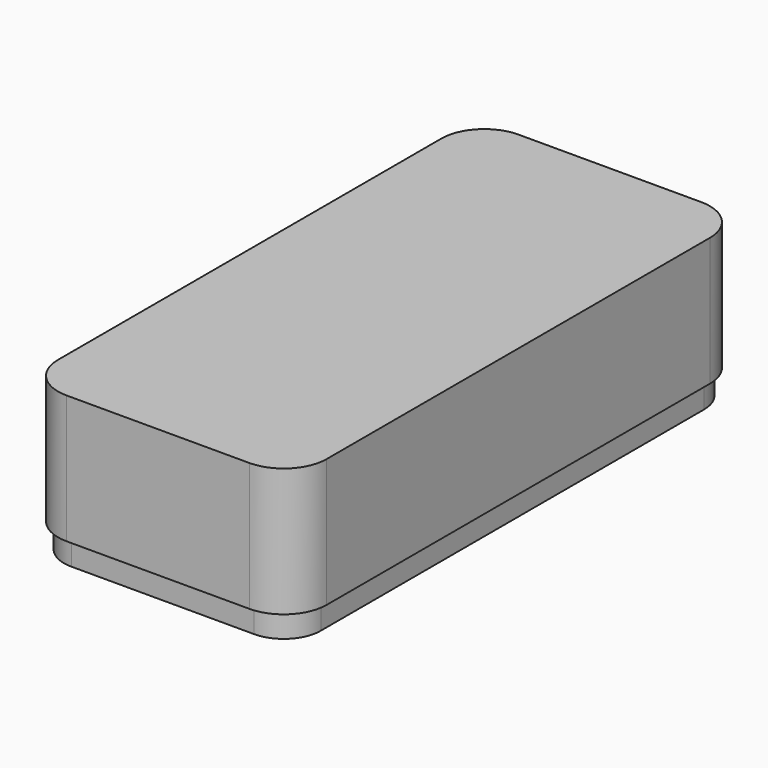
from build123d import *

# Parameters (mm, degrees)
F0_W      = 100
F0_H      = 2
F1_DEPTH  = 60
F0_H_2    = 82
F2_DEPTH  = 2
F4_DEPTH  = 2
F6_DEPTH  = 2
F7_R      = 10
F9_DEPTH  = 2
F10_DEPTH = 50


with BuildPart() as f1:
    # F0 (on Top) → F1 (new body)
    with BuildSketch(Plane.XY):
        with BuildLine():
            ThreePointArc((-41.5143723786, 157.8886009157), (-52.1209740964, 153.4952026335), (-56.5143723786, 142.8886009157))
            Line((-56.5143723786, 142.8886009157), (-56.5143723786, -51.1113990843))
            ThreePointArc((-56.5143723786, -51.1113990843), (-52.1209740964, -61.7180008021), (-41.5143723786, -66.1113990843))
            Line((-41.5143723786, -66.1113990843), (32.4856276214, -66.1113990843))
            ThreePointArc((32.4856276214, -66.1113990843), (43.0922293392, -61.7180008021), (47.4856276214, -51.1113990843))
            Line((47.4856276214, -51.1113990843), (47.4856276214, 142.8886009157))
            ThreePointArc((47.4856276214, 142.8886009157), (43.0922293392, 153.4952026335), (32.4856276214, 157.8886009157))
            Line((32.4856276214, 157.8886009157), (-41.5143723786, 157.8886009157))
        make_face()
        with BuildLine():
            ThreePointArc((-54.5143723786, 140.8886009157), (-50.1209740964, 151.4952026335), (-39.5143723786, 155.8886009157))
            Line((-39.5143723786, 155.8886009157), (30.4856276214, 155.8886009157))
            ThreePointArc((30.4856276214, 155.8886009157), (41.0922293392, 151.4952026335), (45.4856276214, 140.8886009157))
            Line((45.4856276214, 140.8886009157), (45.4856276214, 95.8886009157))
            Line((45.4856276214, 95.8886009157), (45.4856276214, 93.8886009157))
            Line((45.4856276214, 93.8886009157), (45.4856276214, 11.8886009157))
            Line((45.4856276214, 11.8886009157), (45.4856276214, 9.8886009157))
            Line((45.4856276214, 9.8886009157), (45.4856276214, -49.1113990843))
            ThreePointArc((45.4856276214, -49.1113990843), (41.0922293392, -59.7180008021), (30.4856276214, -64.1113990843))
            Line((30.4856276214, -64.1113990843), (-39.5143723786, -64.1113990843))
            ThreePointArc((-39.5143723786, -64.1113990843), (-50.1209740964, -59.7180008021), (-54.5143723786, -49.1113990843))
            Line((-54.5143723786, -49.1113990843), (-54.5143723786, 9.8886009157))
            Line((-54.5143723786, 9.8886009157), (-54.5143723786, 11.8886009157))
            Line((-54.5143723786, 11.8886009157), (-54.5143723786, 93.8886009157))
            Line((-54.5143723786, 93.8886009157), (-54.5143723786, 95.8886009157))
            Line((-54.5143723786, 95.8886009157), (-54.5143723786, 140.8886009157))
        make_face(mode=Mode.SUBTRACT)
        with Locations((-4.5143723786, 94.8886009157)):
            Rectangle(F0_W, F0_H)
        with Locations((-4.5143723786, 10.8886009157)):
            Rectangle(F0_W, F0_H)
    extrude(amount=F1_DEPTH)

    # F0 (on Top) → F2 (join)
    with BuildSketch(Plane.XY):
        with BuildLine():
            Line((30.4856276214, 155.8886009157), (-39.5143723786, 155.8886009157))
            ThreePointArc((-39.5143723786, 155.8886009157), (-50.1209740964, 151.4952026335), (-54.5143723786, 140.8886009157))
            Line((-54.5143723786, 140.8886009157), (-54.5143723786, 95.8886009157))
            Line((-54.5143723786, 95.8886009157), (45.4856276214, 95.8886009157))
            Line((45.4856276214, 95.8886009157), (45.4856276214, 140.8886009157))
            ThreePointArc((45.4856276214, 140.8886009157), (41.0922293392, 151.4952026335), (30.4856276214, 155.8886009157))
        make_face()
        with Locations((-4.5143723786, 52.8886009157)):
            Rectangle(F0_W, F0_H_2)
        with BuildLine():
            Line((45.4856276214, 9.8886009157), (-54.5143723786, 9.8886009157))
            Line((-54.5143723786, 9.8886009157), (-54.5143723786, -49.1113990843))
            ThreePointArc((-54.5143723786, -49.1113990843), (-50.1209740964, -59.7180008021), (-39.5143723786, -64.1113990843))
            Line((-39.5143723786, -64.1113990843), (30.4856276214, -64.1113990843))
            ThreePointArc((30.4856276214, -64.1113990843), (41.0922293392, -59.7180008021), (45.4856276214, -49.1113990843))
            Line((45.4856276214, -49.1113990843), (45.4856276214, 9.8886009157))
        make_face()
    extrude(amount=F2_DEPTH)

    # F3 (on face) → F4 (cut, through all)
    with BuildSketch(Plane.XZ.offset(-9.8886009157)):
        with BuildLine():
            Line((8.9856276214, 60), (-18.0143723786, 60))
            Line((-18.0143723786, 60), (-18.0143723786, 15))
            ThreePointArc((-18.0143723786, 15), (-15.0854401905, 7.9289321881), (-8.0143723786, 5))
            Line((-8.0143723786, 5), (-1.0143723786, 5))
            ThreePointArc((-1.0143723786, 5), (6.0566954333, 7.9289321881), (8.9856276214, 15))
            Line((8.9856276214, 15), (8.9856276214, 60))
        make_face()
    extrude(amount=-F4_DEPTH, mode=Mode.SUBTRACT)

    # F5 (on face) → F6 (cut, through all)
    with BuildSketch(Plane.XZ.offset(-93.8886009157)):
        with BuildLine():
            Line((5.9856276214, 60), (-15.0143723786, 60))
            Line((-15.0143723786, 60), (-15.0143723786, 17))
            ThreePointArc((-15.0143723786, 17), (-12.3783334093, 10.6360389693), (-6.0143723786, 8))
            Line((-6.0143723786, 8), (-3.0143723786, 8))
            ThreePointArc((-3.0143723786, 8), (3.3495886521, 10.6360389693), (5.9856276214, 17))
            Line((5.9856276214, 17), (5.9856276214, 60))
        make_face()
    extrude(amount=-F6_DEPTH, mode=Mode.SUBTRACT)

    # F7
    f7_edges = [f1.edges().sort_by_distance(p)[0] for p in [
        (-54.514372, 9.888601, 31),
        (45.485628, 9.888601, 31),
        (-54.514372, 11.888601, 31),
        (45.485628, 11.888601, 31),
        (-54.514372, 93.888601, 31),
        (45.485628, 93.888601, 31),
        (45.485628, 95.888601, 31),
        (-54.514372, 95.888601, 31),
    ]]
    fillet(f7_edges, radius=F7_R)


with BuildPart() as f9:
    # F8 (on face) → F9 (new body)
    with BuildSketch(Plane.XY.offset(60)):
        with BuildLine():
            Line((32.4856276214, 160.2886009157), (-41.5143723786, 160.2886009157))
            ThreePointArc((-41.5143723786, 160.2886009157), (-53.8180303712, 155.1922589083), (-58.9143723786, 142.8886009157))
            Line((-58.9143723786, 142.8886009157), (-58.9143723786, -51.1113990843))
            ThreePointArc((-58.9143723786, -51.1113990843), (-53.8180303712, -63.415057077), (-41.5143723786, -68.5113990843))
            Line((-41.5143723786, -68.5113990843), (32.4856276214, -68.5113990843))
            ThreePointArc((32.4856276214, -68.5113990843), (44.7892856141, -63.415057077), (49.8856276214, -51.1113990843))
            Line((49.8856276214, -51.1113990843), (49.8856276214, 142.8886009157))
            ThreePointArc((49.8856276214, 142.8886009157), (44.7892856141, 155.1922589083), (32.4856276214, 160.2886009157))
        make_face()
        with BuildLine():
            ThreePointArc((-56.9143723786, 142.8886009157), (-52.4038168089, 153.7780453459), (-41.5143723786, 158.2886009157))
            Line((-41.5143723786, 158.2886009157), (32.4856276214, 158.2886009157))
            ThreePointArc((32.4856276214, 158.2886009157), (43.3750720517, 153.7780453459), (47.8856276214, 142.8886009157))
            Line((47.8856276214, 142.8886009157), (47.8856276214, -51.1113990843))
            ThreePointArc((47.8856276214, -51.1113990843), (43.3750720517, -62.0008435146), (32.4856276214, -66.5113990843))
            Line((32.4856276214, -66.5113990843), (-41.5143723786, -66.5113990843))
            ThreePointArc((-41.5143723786, -66.5113990843), (-52.4038168089, -62.0008435146), (-56.9143723786, -51.1113990843))
            Line((-56.9143723786, -51.1113990843), (-56.9143723786, 142.8886009157))
        make_face(mode=Mode.SUBTRACT)
        with BuildLine():
            Line((32.4856276214, 158.2886009157), (-41.5143723786, 158.2886009157))
            ThreePointArc((-41.5143723786, 158.2886009157), (-52.4038168089, 153.7780453459), (-56.9143723786, 142.8886009157))
            Line((-56.9143723786, 142.8886009157), (-56.9143723786, -51.1113990843))
            ThreePointArc((-56.9143723786, -51.1113990843), (-52.4038168089, -62.0008435146), (-41.5143723786, -66.5113990843))
            Line((-41.5143723786, -66.5113990843), (32.4856276214, -66.5113990843))
            ThreePointArc((32.4856276214, -66.5113990843), (43.3750720517, -62.0008435146), (47.8856276214, -51.1113990843))
            Line((47.8856276214, -51.1113990843), (47.8856276214, 142.8886009157))
            ThreePointArc((47.8856276214, 142.8886009157), (43.3750720517, 153.7780453459), (32.4856276214, 158.2886009157))
        make_face()
        with BuildLine():
            Line((-41.5143723786, 157.8886009157), (32.4856276214, 157.8886009157))
            ThreePointArc((32.4856276214, 157.8886009157), (43.0922293392, 153.4952026335), (47.4856276214, 142.8886009157))
            Line((47.4856276214, 142.8886009157), (47.4856276214, -51.1113990843))
            ThreePointArc((47.4856276214, -51.1113990843), (43.0922293392, -61.7180008021), (32.4856276214, -66.1113990843))
            Line((32.4856276214, -66.1113990843), (-41.5143723786, -66.1113990843))
            ThreePointArc((-41.5143723786, -66.1113990843), (-52.1209740964, -61.7180008021), (-56.5143723786, -51.1113990843))
            Line((-56.5143723786, -51.1113990843), (-56.5143723786, 142.8886009157))
            ThreePointArc((-56.5143723786, 142.8886009157), (-52.1209740964, 153.4952026335), (-41.5143723786, 157.8886009157))
        make_face(mode=Mode.SUBTRACT)
        with BuildLine():
            ThreePointArc((47.4856276214, 142.8886009157), (43.0922293392, 153.4952026335), (32.4856276214, 157.8886009157))
            Line((32.4856276214, 157.8886009157), (-41.5143723786, 157.8886009157))
            ThreePointArc((-41.5143723786, 157.8886009157), (-52.1209740964, 153.4952026335), (-56.5143723786, 142.8886009157))
            Line((-56.5143723786, 142.8886009157), (-56.5143723786, -51.1113990843))
            ThreePointArc((-56.5143723786, -51.1113990843), (-52.1209740964, -61.7180008021), (-41.5143723786, -66.1113990843))
            Line((-41.5143723786, -66.1113990843), (32.4856276214, -66.1113990843))
            ThreePointArc((32.4856276214, -66.1113990843), (43.0922293392, -61.7180008021), (47.4856276214, -51.1113990843))
            Line((47.4856276214, -51.1113990843), (47.4856276214, 142.8886009157))
        make_face()
        with BuildLine():
            ThreePointArc((35.4856276214, 9.8886009157), (42.5566954333, 6.9596687275), (45.4856276214, -0.1113990843))
            Line((45.4856276214, -0.1113990843), (45.4856276214, -49.1113990843))
            ThreePointArc((45.4856276214, -49.1113990843), (41.0922293392, -59.7180008021), (30.4856276214, -64.1113990843))
            Line((30.4856276214, -64.1113990843), (-39.5143723786, -64.1113990843))
            ThreePointArc((-39.5143723786, -64.1113990843), (-50.1209740964, -59.7180008021), (-54.5143723786, -49.1113990843))
            Line((-54.5143723786, -49.1113990843), (-54.5143723786, -0.1113990843))
            ThreePointArc((-54.5143723786, -0.1113990843), (-51.5854401905, 6.9596687275), (-44.5143723786, 9.8886009157))
            Line((-44.5143723786, 9.8886009157), (-18.0143723786, 9.8886009157))
            Line((-18.0143723786, 9.8886009157), (-18.0143723786, 11.8886009157))
            Line((-18.0143723786, 11.8886009157), (-44.5143723786, 11.8886009157))
            ThreePointArc((-44.5143723786, 11.8886009157), (-51.5854401905, 14.8175331038), (-54.5143723786, 21.8886009157))
            Line((-54.5143723786, 21.8886009157), (-54.5143723786, 83.8886009157))
            ThreePointArc((-54.5143723786, 83.8886009157), (-51.5854401905, 90.9596687275), (-44.5143723786, 93.8886009157))
            Line((-44.5143723786, 93.8886009157), (-15.0143723786, 93.8886009157))
            Line((-15.0143723786, 93.8886009157), (-15.0143723786, 95.8886009157))
            Line((-15.0143723786, 95.8886009157), (-44.5143723786, 95.8886009157))
            ThreePointArc((-44.5143723786, 95.8886009157), (-51.5854401905, 98.8175331038), (-54.5143723786, 105.8886009157))
            Line((-54.5143723786, 105.8886009157), (-54.5143723786, 140.8886009157))
            ThreePointArc((-54.5143723786, 140.8886009157), (-50.1209740964, 151.4952026335), (-39.5143723786, 155.8886009157))
            Line((-39.5143723786, 155.8886009157), (30.4856276214, 155.8886009157))
            ThreePointArc((30.4856276214, 155.8886009157), (41.0922293392, 151.4952026335), (45.4856276214, 140.8886009157))
            Line((45.4856276214, 140.8886009157), (45.4856276214, 105.8886009157))
            ThreePointArc((45.4856276214, 105.8886009157), (42.5566954333, 98.8175331038), (35.4856276214, 95.8886009157))
            Line((35.4856276214, 95.8886009157), (5.9856276214, 95.8886009157))
            Line((5.9856276214, 95.8886009157), (5.9856276214, 93.8886009157))
            Line((5.9856276214, 93.8886009157), (35.4856276214, 93.8886009157))
            ThreePointArc((35.4856276214, 93.8886009157), (42.5566954333, 90.9596687275), (45.4856276214, 83.8886009157))
            Line((45.4856276214, 83.8886009157), (45.4856276214, 21.8886009157))
            ThreePointArc((45.4856276214, 21.8886009157), (42.5566954333, 14.8175331038), (35.4856276214, 11.8886009157))
            Line((35.4856276214, 11.8886009157), (8.9856276214, 11.8886009157))
            Line((8.9856276214, 11.8886009157), (8.9856276214, 9.8886009157))
            Line((8.9856276214, 9.8886009157), (35.4856276214, 9.8886009157))
        make_face(mode=Mode.SUBTRACT)
        with BuildLine():
            Line((45.4856276214, -49.1113990843), (45.4856276214, -0.1113990843))
            ThreePointArc((45.4856276214, -0.1113990843), (42.5566954333, 6.9596687275), (35.4856276214, 9.8886009157))
            Line((35.4856276214, 9.8886009157), (8.9856276214, 9.8886009157))
            Line((8.9856276214, 9.8886009157), (8.9856276214, 11.8886009157))
            Line((8.9856276214, 11.8886009157), (35.4856276214, 11.8886009157))
            ThreePointArc((35.4856276214, 11.8886009157), (42.5566954333, 14.8175331038), (45.4856276214, 21.8886009157))
            Line((45.4856276214, 21.8886009157), (45.4856276214, 83.8886009157))
            ThreePointArc((45.4856276214, 83.8886009157), (42.5566954333, 90.9596687275), (35.4856276214, 93.8886009157))
            Line((35.4856276214, 93.8886009157), (5.9856276214, 93.8886009157))
            Line((5.9856276214, 93.8886009157), (5.9856276214, 95.8886009157))
            Line((5.9856276214, 95.8886009157), (35.4856276214, 95.8886009157))
            ThreePointArc((35.4856276214, 95.8886009157), (42.5566954333, 98.8175331038), (45.4856276214, 105.8886009157))
            Line((45.4856276214, 105.8886009157), (45.4856276214, 140.8886009157))
            ThreePointArc((45.4856276214, 140.8886009157), (41.0922293392, 151.4952026335), (30.4856276214, 155.8886009157))
            Line((30.4856276214, 155.8886009157), (-39.5143723786, 155.8886009157))
            ThreePointArc((-39.5143723786, 155.8886009157), (-50.1209740964, 151.4952026335), (-54.5143723786, 140.8886009157))
            Line((-54.5143723786, 140.8886009157), (-54.5143723786, 105.8886009157))
            ThreePointArc((-54.5143723786, 105.8886009157), (-51.5854401905, 98.8175331038), (-44.5143723786, 95.8886009157))
            Line((-44.5143723786, 95.8886009157), (-15.0143723786, 95.8886009157))
            Line((-15.0143723786, 95.8886009157), (-15.0143723786, 93.8886009157))
            Line((-15.0143723786, 93.8886009157), (-44.5143723786, 93.8886009157))
            ThreePointArc((-44.5143723786, 93.8886009157), (-51.5854401905, 90.9596687275), (-54.5143723786, 83.8886009157))
            Line((-54.5143723786, 83.8886009157), (-54.5143723786, 21.8886009157))
            ThreePointArc((-54.5143723786, 21.8886009157), (-51.5854401905, 14.8175331038), (-44.5143723786, 11.8886009157))
            Line((-44.5143723786, 11.8886009157), (-18.0143723786, 11.8886009157))
            Line((-18.0143723786, 11.8886009157), (-18.0143723786, 9.8886009157))
            Line((-18.0143723786, 9.8886009157), (-44.5143723786, 9.8886009157))
            ThreePointArc((-44.5143723786, 9.8886009157), (-51.5854401905, 6.9596687275), (-54.5143723786, -0.1113990843))
            Line((-54.5143723786, -0.1113990843), (-54.5143723786, -49.1113990843))
            ThreePointArc((-54.5143723786, -49.1113990843), (-50.1209740964, -59.7180008021), (-39.5143723786, -64.1113990843))
            Line((-39.5143723786, -64.1113990843), (30.4856276214, -64.1113990843))
            ThreePointArc((30.4856276214, -64.1113990843), (41.0922293392, -59.7180008021), (45.4856276214, -49.1113990843))
        make_face()
    extrude(amount=F9_DEPTH)

    # F8 (on face) → F10 (join)
    with BuildSketch(Plane.XY.offset(60)):
        with BuildLine():
            Line((32.4856276214, 160.2886009157), (-41.5143723786, 160.2886009157))
            ThreePointArc((-41.5143723786, 160.2886009157), (-53.8180303712, 155.1922589083), (-58.9143723786, 142.8886009157))
            Line((-58.9143723786, 142.8886009157), (-58.9143723786, -51.1113990843))
            ThreePointArc((-58.9143723786, -51.1113990843), (-53.8180303712, -63.415057077), (-41.5143723786, -68.5113990843))
            Line((-41.5143723786, -68.5113990843), (32.4856276214, -68.5113990843))
            ThreePointArc((32.4856276214, -68.5113990843), (44.7892856141, -63.415057077), (49.8856276214, -51.1113990843))
            Line((49.8856276214, -51.1113990843), (49.8856276214, 142.8886009157))
            ThreePointArc((49.8856276214, 142.8886009157), (44.7892856141, 155.1922589083), (32.4856276214, 160.2886009157))
        make_face()
        with BuildLine():
            ThreePointArc((-56.9143723786, 142.8886009157), (-52.4038168089, 153.7780453459), (-41.5143723786, 158.2886009157))
            Line((-41.5143723786, 158.2886009157), (32.4856276214, 158.2886009157))
            ThreePointArc((32.4856276214, 158.2886009157), (43.3750720517, 153.7780453459), (47.8856276214, 142.8886009157))
            Line((47.8856276214, 142.8886009157), (47.8856276214, -51.1113990843))
            ThreePointArc((47.8856276214, -51.1113990843), (43.3750720517, -62.0008435146), (32.4856276214, -66.5113990843))
            Line((32.4856276214, -66.5113990843), (-41.5143723786, -66.5113990843))
            ThreePointArc((-41.5143723786, -66.5113990843), (-52.4038168089, -62.0008435146), (-56.9143723786, -51.1113990843))
            Line((-56.9143723786, -51.1113990843), (-56.9143723786, 142.8886009157))
        make_face(mode=Mode.SUBTRACT)
    extrude(amount=-F10_DEPTH)


solid = Compound([f1.part, f9.part])
